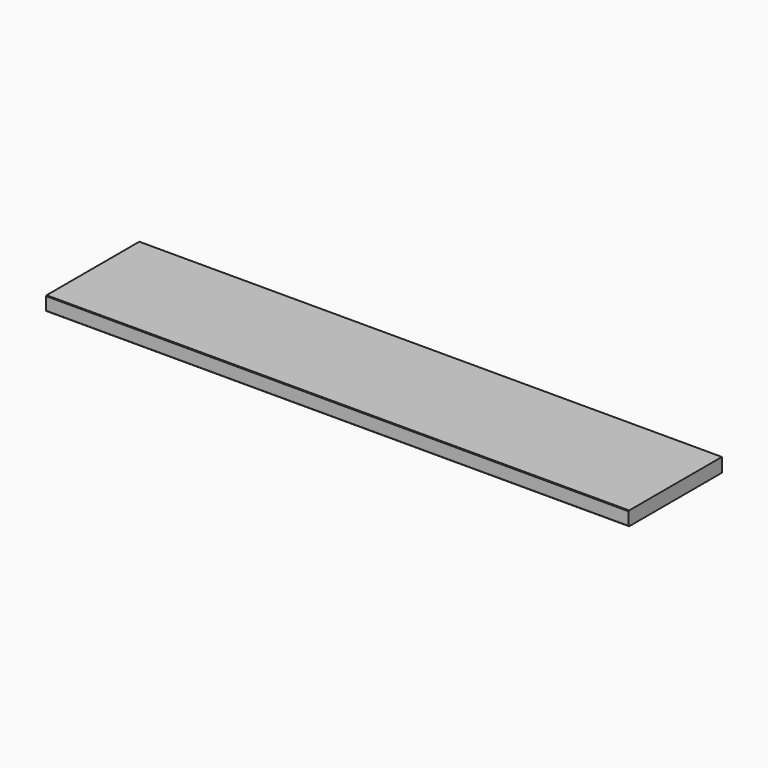
from build123d import *

# Parameters (mm, degrees)
F0_W     = 100
F0_H     = 12
F1_DEPTH = 250
F2_SIZE  = 0.5


with BuildPart() as f1:
    # F0 (on Right) → F1 (new body, symmetric)
    with BuildSketch(Plane.YZ):
        with Locations((50, 0)):
            Rectangle(F0_W, F0_H)
    extrude(amount=F1_DEPTH, both=True)

    # F2
    f2_edges = [f1.edges().sort_by_distance(p)[0] for p in [
        (0, 0, 6),
        (0, 0, -6),
    ]]
    chamfer(f2_edges, length=F2_SIZE)


solid = f1.part
